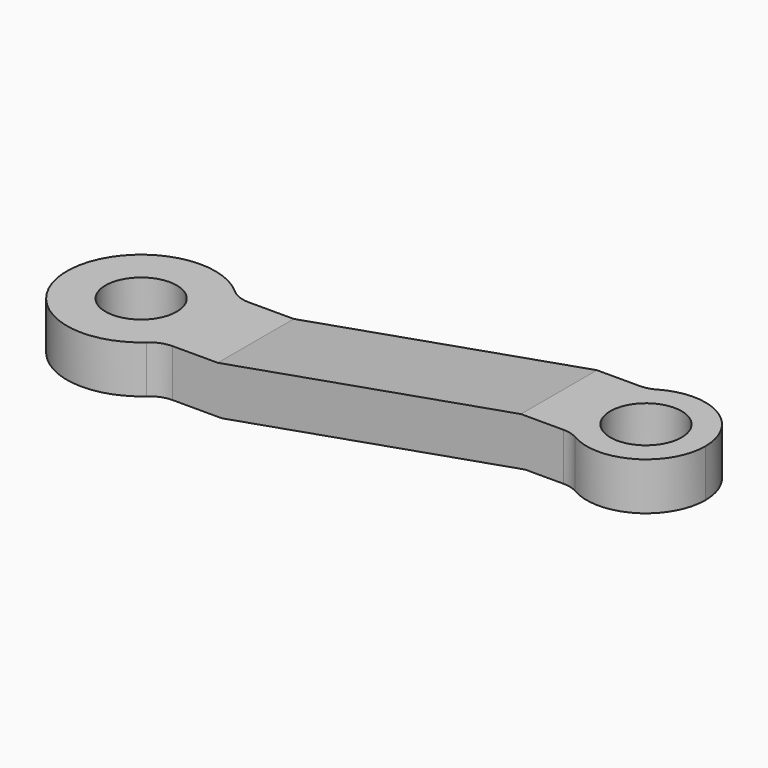
from build123d import *

# Parameters (mm, degrees)
F0_R     = 152.4
F1_DEPTH = 635
F3_DEPTH = 317.5
F4_R     = 127


with BuildPart() as f1:
    # F0 (on Top) → F1 (new body)
    with BuildSketch(Plane.XY):
        with BuildLine():
            ThreePointArc((243.959033, -203.2), (298.549195, -108.049195), (317.5, 0))
            ThreePointArc((317.5, 0), (298.549195, 108.049195), (243.959033, 203.2))
            ThreePointArc((243.959033, 203.2), (-317.5, 0), (243.959033, -203.2))
        make_face()
        Circle(F0_R, mode=Mode.SUBTRACT)
        with BuildLine():
            ThreePointArc((243.959033, 203.2), (298.549195, 108.049195), (317.5, 0))
            ThreePointArc((317.5, 0), (298.549195, -108.049195), (243.959033, -203.2))
            Line((243.959033, -203.2), (2006.6, -203.2))
            ThreePointArc((2006.6, -203.2), (1905, 0), (2006.6, 203.2))
            Line((2006.6, 203.2), (243.959033, 203.2))
        make_face()
        with BuildLine():
            ThreePointArc((2413, 0), (2272.592253, 227.184507), (2006.6, 203.2))
            ThreePointArc((2006.6, 203.2), (1905, 0), (2006.6, -203.2))
            ThreePointArc((2006.6, -203.2), (2272.592253, -227.184507), (2413, 0))
        make_face()
        with Locations((2159, 0)):
            Circle(F0_R, mode=Mode.SUBTRACT)
    extrude(amount=F1_DEPTH)

    # F2 (on Front) → F3 (intersect, symmetric)
    with BuildSketch(Plane.XZ):
        Polygon((-317.5, 203.2), (-317.5, 0), (508, 0), (1804.455024, 228.6), (2413, 228.6), (2413, 431.8), (1786.677328, 431.8), (490.222304, 203.2), align=None)
    extrude(amount=F3_DEPTH, both=True, mode=Mode.INTERSECT)

    # F4
    f4_edges = [f1.edges().sort_by_distance(p)[0] for p in [
        (2006.6, 203.2, 330.2),
        (243.959033, 203.2, 101.6),
        (243.959033, -203.2, 101.6),
        (2006.6, -203.2, 330.2),
    ]]
    fillet(f4_edges, radius=F4_R)


solid = f1.part
